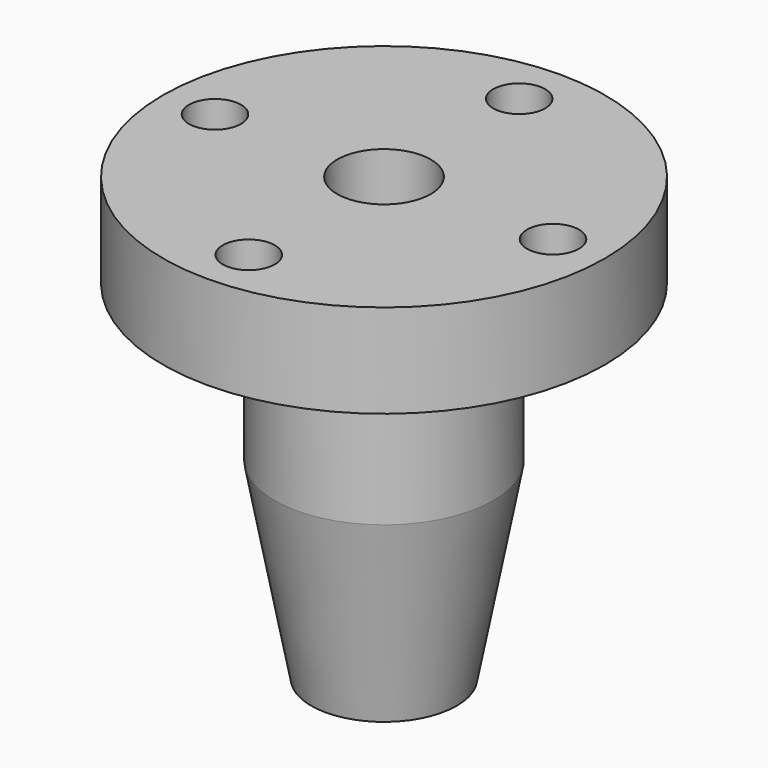
from build123d import *

# Parameters (mm, degrees)
F3_R     = 5
F4_DEPTH = 85.001


with BuildPart() as f1:
    # F0 (on Front) → F1 (revolve)
    with BuildSketch(Plane.XZ):
        Polygon((42.5, 37.374231), (9, 37.374231), (9, -47.625769), (14, -47.625769), (21, -10.625769), (21, 19.374231), (42.5, 19.374231), align=None)
    revolve(axis=Axis((0, 0, -6.798562), (0, 0, -1)))

    # F3 (on face) → F4 (cut, through all)
    with BuildSketch(Plane.XY.offset(37.374231)):
        with Locations((32.5, 0)):
            Circle(F3_R)
        with Locations((0, 32.5)):
            Circle(F3_R)
        with Locations((-32.5, 0)):
            Circle(F3_R)
        with Locations((0, -32.5)):
            Circle(F3_R)
    extrude(amount=-F4_DEPTH, mode=Mode.SUBTRACT)


solid = f1.part
